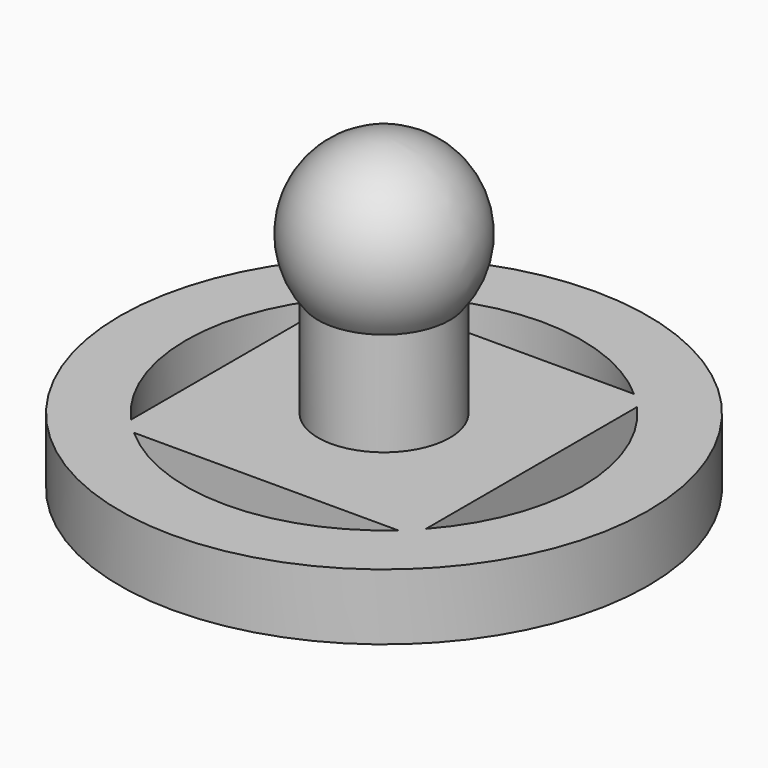
from build123d import *

# Parameters (mm, degrees)
SKETCH001_R       = 20
PAD001_DEPTH      = 5
CYLINDER012_R     = 5
CYLINDER012_DEPTH = 15


with BuildPart() as pad001:
    # Sketch001 → Pad001 (new body)
    with BuildSketch(Plane.XY):
        Circle(SKETCH001_R)
        with BuildLine():
            ThreePointArc((11.18034, -10), (15, 0), (11.18034, 10))
            Line((11.18034, 10), (11.18034, -10))
        make_face(mode=Mode.SUBTRACT)
        with BuildLine():
            ThreePointArc((-11.18034, 10), (-15, 0), (-11.18034, -10))
            Line((-11.18034, 10), (-11.18034, -10))
        make_face(mode=Mode.SUBTRACT)
        with BuildLine():
            ThreePointArc((10, 11.18034), (0, 15), (-10, 11.18034))
            Line((-10, 11.18034), (10, 11.18034))
        make_face(mode=Mode.SUBTRACT)
        with BuildLine():
            ThreePointArc((-10, -11.18034), (0, -15), (10, -11.18034))
            Line((-10, -11.18034), (10, -11.18034))
        make_face(mode=Mode.SUBTRACT)
    extrude(amount=PAD001_DEPTH)


with BuildPart() as sphere001:
    # Sphere001 → Sphere001 (revolve)
    with BuildSketch(Plane(origin=(0, 0, 17), x_dir=(1, 0, 0), z_dir=(0, -1, 0))):
        with BuildLine():
            ThreePointArc((0, -6.5), (6.5, 0), (0, 6.5))
            Line((0, 6.5), (0, -6.5))
        make_face()
    revolve(axis=Axis((0, 0, 17), (0, 0, 1)))


with BuildPart() as clone_of_piezacirculo:
    # Cylinder012 → Cylinder012 (new body)
    with BuildSketch(Plane.XY):
        Circle(CYLINDER012_R)
    extrude(amount=CYLINDER012_DEPTH)

    # Fusion018: union Pad001, Sphere001
    add(pad001.part)
    add(sphere001.part)


with BuildPart() as clone_of_piezacirculo_1:
    # Clone020 placement: moved
    add(clone_of_piezacirculo.part.moved(Location((10, 10, 21.5))))


solid = clone_of_piezacirculo_1.part
